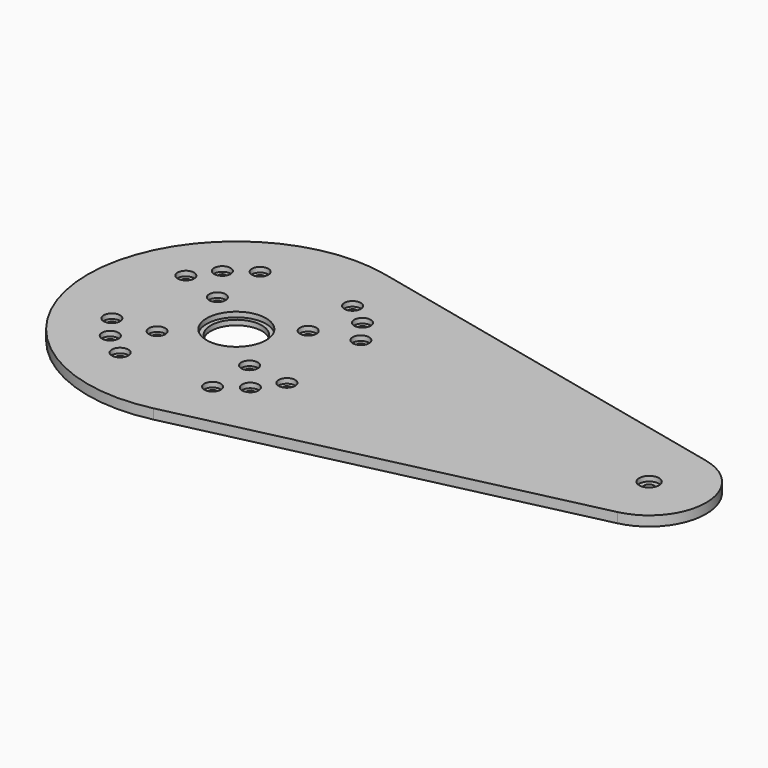
from build123d import *

# Parameters (mm, degrees)
SKETCH_R              = 3
SKETCH_R_2            = 15.5
PAD_DEPTH             = 6
SKETCH001_R           = 2.5
POCKET_DEPTH          = 10
POLARPATTERN_COUNT    = 4
SKETCH002_R           = 5
POCKET001_DEPTH       = 3
POLARPATTERN001_COUNT = 4
SKETCH003_R           = 6
POCKET002_DEPTH       = 3
SKETCH004_R           = 18
POCKET003_DEPTH       = 3
SKETCH010_R           = 2.5
POCKET007_DEPTH       = 6
SKETCH011_R           = 5
POCKET008_DEPTH       = 3
POLARPATTERN004_COUNT = 4
SKETCH012_R           = 2.5
POCKET009_DEPTH       = 6
SKETCH013_R           = 5
POCKET010_DEPTH       = 3


with BuildPart() as part:
    # Sketch → Pad (new body)
    with BuildSketch(Plane.XY):
        with BuildLine():
            ThreePointArc((19.98, 87.7542), (-90, 0), (19.98, -87.7542))
            Line((19.98, -87.7542), (257.659, -33.63911))
            ThreePointArc((257.659, -33.63911), (284.5, 0), (257.659, 33.63911))
            Line((19.98, 87.7542), (257.659, 33.63911))
        make_face()
        with Locations((250, 0)):
            Circle(SKETCH_R, mode=Mode.SUBTRACT)
        Circle(SKETCH_R_2, mode=Mode.SUBTRACT)
    extrude(amount=PAD_DEPTH)

    # Sketch001 (on Face8 of Pad) → Pocket (cut)
    with BuildSketch(Plane.XY.offset(6)):
        with Locations((42.4248, 42.428014)):
            Circle(SKETCH001_R)
    pocket = extrude(amount=-POCKET_DEPTH, mode=Mode.SUBTRACT)

    # PolarPattern: Pocket ×4 about axis
    polarpattern_axis = Axis((0, 0, 6), (0, 0, 1))
    for i in range(1, POLARPATTERN_COUNT):
        add(pocket.rotate(polarpattern_axis, i * 360 / POLARPATTERN_COUNT), mode=Mode.SUBTRACT)

    # Sketch002 (on Face5 of PolarPattern) → Pocket001 (cut)
    with BuildSketch(Plane.XY.offset(6)):
        with Locations((-42.428014, 42.4248)):
            Circle(SKETCH002_R)
    pocket001 = extrude(amount=-POCKET001_DEPTH, mode=Mode.SUBTRACT)

    # PolarPattern001: Pocket001 ×4 about axis
    polarpattern001_axis = Axis((0, 0, 6), (0, 0, 1))
    for i in range(1, POLARPATTERN001_COUNT):
        add(pocket001.rotate(polarpattern001_axis, i * 360 / POLARPATTERN001_COUNT), mode=Mode.SUBTRACT)

    # Sketch003 (on Face5 of PolarPattern001) → Pocket002 (cut)
    with BuildSketch(Plane.XY.offset(6)):
        with Locations((250, 0)):
            Circle(SKETCH003_R)
    extrude(amount=-POCKET002_DEPTH, mode=Mode.SUBTRACT)

    # Sketch004 (on Face5 of Pocket002) → Pocket003 (cut)
    with BuildSketch(Plane.XY.offset(6)):
        Circle(SKETCH004_R)
    extrude(amount=-POCKET003_DEPTH, mode=Mode.SUBTRACT)

    # Sketch010 (on Face5 of Pocket003) → Pocket007 (cut)
    with BuildSketch(Plane.XY.offset(6)):
        with Locations((53, 28)):
            Circle(SKETCH010_R)
        with Locations((53, -28)):
            Circle(SKETCH010_R)
    pocket007 = extrude(amount=-POCKET007_DEPTH, mode=Mode.SUBTRACT)

    # Sketch011 (on Face5 of Pocket007) → Pocket008 (cut)
    with BuildSketch(Plane.XY.offset(6)):
        with Locations((53, 28)):
            Circle(SKETCH011_R)
        with Locations((53, -28)):
            Circle(SKETCH011_R)
    pocket008 = extrude(amount=-POCKET008_DEPTH, mode=Mode.SUBTRACT)

    # PolarPattern004: Pocket007, Pocket008 ×4 about axis
    polarpattern004_axis = Axis((0, 0, 6), (0, 0, 1))
    for i in range(1, POLARPATTERN004_COUNT):
        add(pocket007.rotate(polarpattern004_axis, i * 360 / POLARPATTERN004_COUNT), mode=Mode.SUBTRACT)
        add(pocket008.rotate(polarpattern004_axis, i * 360 / POLARPATTERN004_COUNT), mode=Mode.SUBTRACT)

    # Sketch012 (on Face5 of PolarPattern004) → Pocket009 (cut)
    with BuildSketch(Plane.XY.offset(6)):
        with Locations((28, -25)):
            Circle(SKETCH012_R)
        with Locations((27.5, 20)):
            Circle(SKETCH012_R)
    pocket009 = extrude(amount=-POCKET009_DEPTH, mode=Mode.SUBTRACT)

    # Sketch013 (on Face5 of Pocket009) → Pocket010 (cut)
    with BuildSketch(Plane.XY.offset(6)):
        with Locations((27.5, 20)):
            Circle(SKETCH013_R)
        with Locations((28, -25)):
            Circle(SKETCH013_R)
    pocket010 = extrude(amount=-POCKET010_DEPTH, mode=Mode.SUBTRACT)

    # Mirrored: Pocket010, Pocket009 across Sketch013 V_Axis
    add(pocket010.mirror(Plane(origin=(0, 0, 6), x_dir=(0, 0, 1), z_dir=(1, 0, 0))), mode=Mode.SUBTRACT)
    add(pocket009.mirror(Plane(origin=(0, 0, 6), x_dir=(0, 0, 1), z_dir=(1, 0, 0))), mode=Mode.SUBTRACT)


solid = part.part
